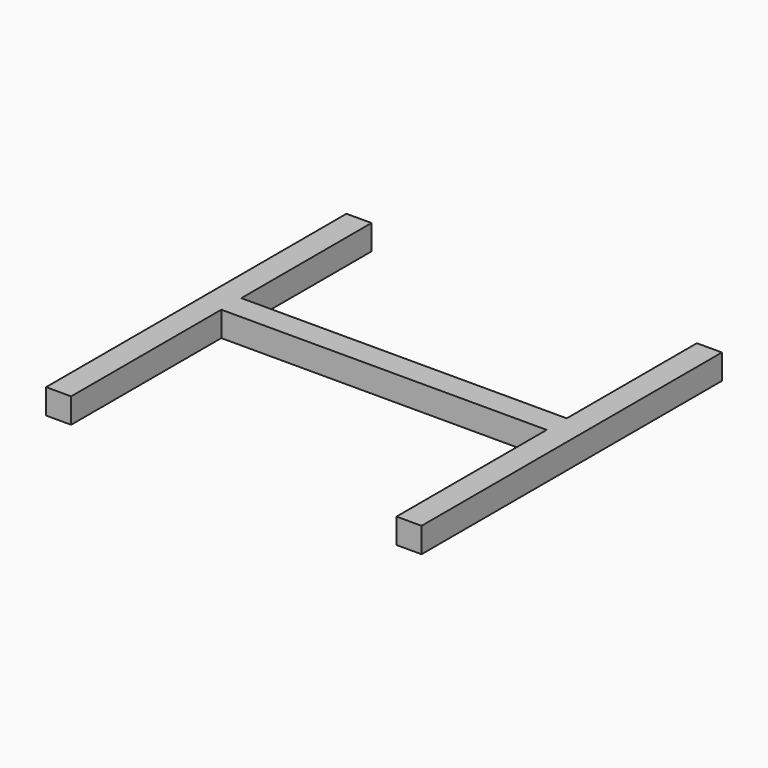
from build123d import *

# Parameters (mm, degrees)
F1_DEPTH = 5


with BuildPart() as f1:
    # F0 (on Top) → F1 (new body, symmetric)
    with BuildSketch(Plane.XY):
        Polygon((-65, -80), (-65, -5), (65, -5), (65, -80), (75, -80), (75, 70), (65, 70), (65, 5), (-65, 5), (-65, 70), (-75, 70), (-75, -80), align=None)
    extrude(amount=F1_DEPTH, both=True)


solid = f1.part
